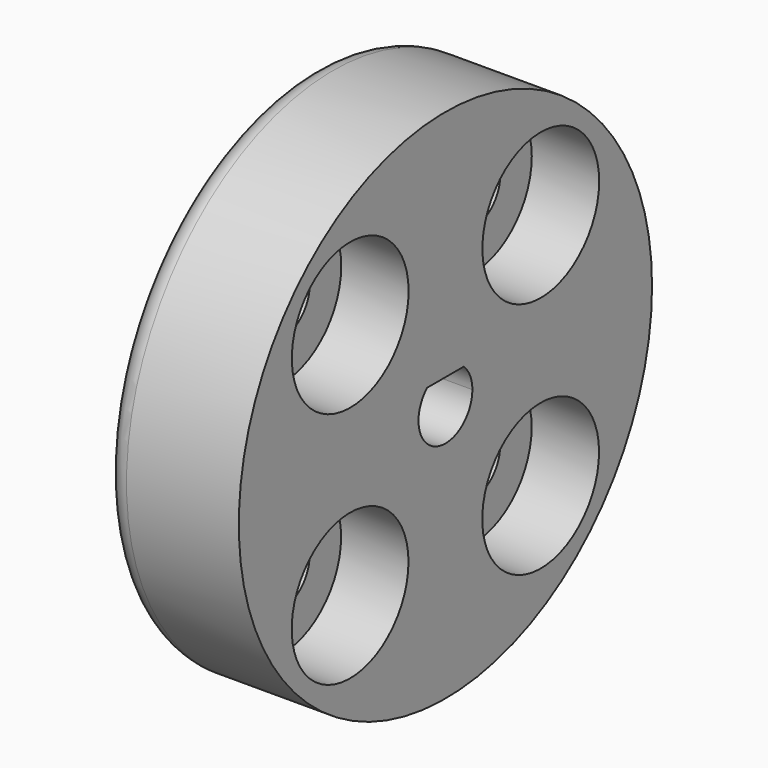
from build123d import *

# Parameters (mm, degrees)
F0_R     = 11.5
F0_R_2   = 3.25
F1_DEPTH = 6
F0_R_3   = 1.5
F2_DEPTH = 3
F3_R     = 1


with BuildPart() as f1:
    # F0 (on Right) → F1 (new body)
    with BuildSketch(Plane.YZ):
        Circle(F0_R)
        with Locations((-5.3066, -5.3)):
            Circle(F0_R_2, mode=Mode.SUBTRACT)
        with Locations((5.3, -5.3066)):
            Circle(F0_R_2, mode=Mode.SUBTRACT)
        with Locations((-5.3, 5.3066)):
            Circle(F0_R_2, mode=Mode.SUBTRACT)
        with BuildLine():
            ThreePointArc((1.019757, 1.100043), (1.374706, 0.600152), (1.5, 0))
            ThreePointArc((1.5, 0), (-0.600093, -1.374732), (-1.019851, 1.099957))
            ThreePointArc((-1.019851, 1.099957), (-6.4e-05, 1.5), (1.019757, 1.100043))
        make_face(mode=Mode.SUBTRACT)
        with Locations((5.3066, 5.3)):
            Circle(F0_R_2, mode=Mode.SUBTRACT)
        with BuildLine():
            Line((-1.019851, 1.099957), (1.019757, 1.100043))
            ThreePointArc((1.019757, 1.100043), (-6.4e-05, 1.5), (-1.019851, 1.099957))
        make_face()
    extrude(amount=F1_DEPTH)

    # F0 (on Right) → F2 (join)
    with BuildSketch(Plane.YZ):
        with Locations((5.3066, 5.3)):
            Circle(F0_R_2)
        with Locations((5.3066, 5.3)):
            Circle(F0_R_3, mode=Mode.SUBTRACT)
        with Locations((-5.3066, -5.3)):
            Circle(F0_R_2)
        with Locations((-5.3066, -5.3)):
            Circle(F0_R_3, mode=Mode.SUBTRACT)
        with Locations((5.3, -5.3066)):
            Circle(F0_R_2)
        with Locations((5.3, -5.3066)):
            Circle(F0_R_3, mode=Mode.SUBTRACT)
        with Locations((-5.3, 5.3066)):
            Circle(F0_R_2)
        with Locations((-5.3, 5.3066)):
            Circle(F0_R_3, mode=Mode.SUBTRACT)
    extrude(amount=F2_DEPTH)

    # F3
    f3_edges = [f1.edges().sort_by_distance(p)[0] for p in [
        (0, -11.5, 0),
    ]]
    fillet(f3_edges, radius=F3_R)


solid = f1.part
